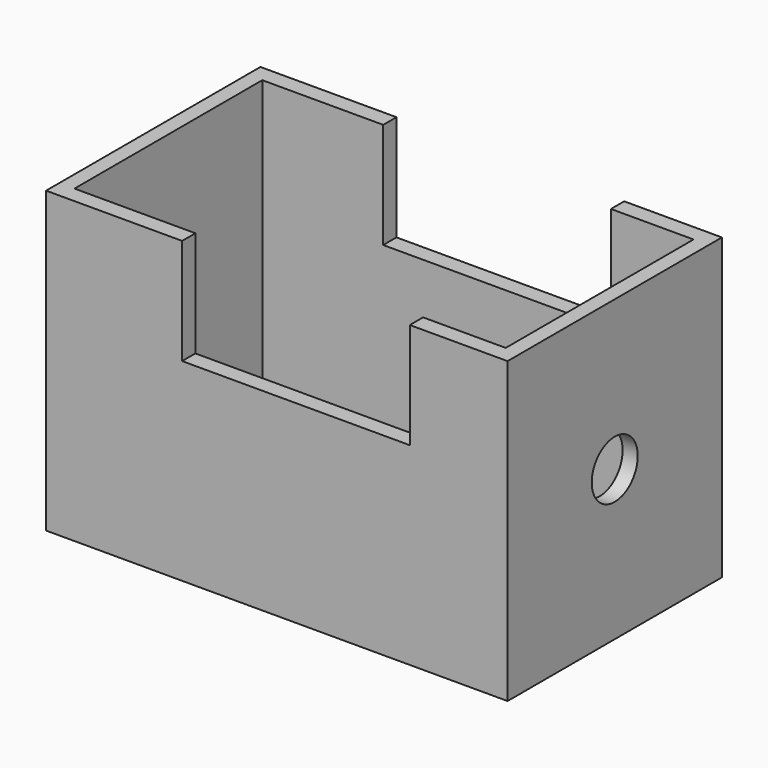
from build123d import *

# Parameters (mm, degrees)
F0_W     = 131.2458962202
F0_H     = 85.1092487574
F1_DEPTH = 38.1
F2_W     = 122.6490065455
F2_H     = 66.7691901326
F3_DEPTH = 109.982
F4_R     = 8.1771007469
F5_DEPTH = 175.514
F6_W     = 64.7632628679
F6_H     = 36.3935176283
F7_DEPTH = 112.776


with BuildPart() as f1:
    # F0 (on Front) → F1 (new body, symmetric)
    with BuildSketch(Plane.XZ):
        Rectangle(F0_W, F0_H)
    extrude(amount=F1_DEPTH, both=True)

    # F2 (on face) → F3 (cut)
    with BuildSketch(Plane.XY.offset(42.5546243787)):
        Rectangle(F2_W, F2_H)
    extrude(amount=-F3_DEPTH, mode=Mode.SUBTRACT)

    # F4 (on face) → F5 (cut)
    with BuildSketch(Plane.YZ.offset(65.6229481101)):
        Circle(F4_R)
    extrude(amount=-F5_DEPTH, mode=Mode.SUBTRACT)

    # F6 (on face) → F7 (cut)
    with BuildSketch(Plane.XZ.offset(38.1)):
        with Locations((5.444701761, 30.6622525677)):
            Rectangle(F6_W, F6_H)
    extrude(amount=-F7_DEPTH, mode=Mode.SUBTRACT)


solid = f1.part
